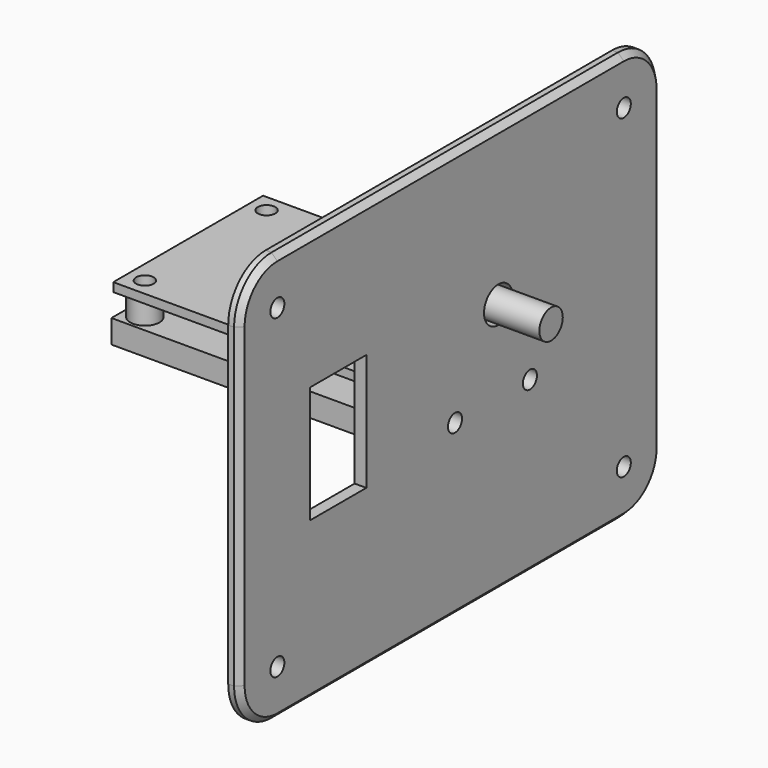
from build123d import *

# Parameters (mm, degrees)
F0_W      = 50
F0_H      = 32
F0_R      = 1.5
F1_DEPTH  = 1.5
F2_W      = 5.773286
F2_H      = 14.389993
F3_DEPTH  = 11
F4_R      = 2.5
F5_DEPTH  = 11
F6_R      = 2.5
F6_R_2    = 1.5
F7_DEPTH  = 4
F8_W      = 50.313371
F8_H      = 32
F9_DEPTH  = 4
F10_R     = 1.5
F10_W     = 12
F10_H     = 20
F10_R_2   = 3.069476
F11_DEPTH = 2
F12_SIZE  = 1


with BuildPart() as f1:
    # F0 (on Top) → F1 (new body)
    with BuildSketch(Plane.XY):
        with Locations((11.350212, -1.27)):
            Rectangle(F0_W, F0_H)
        with Locations((-10.649788, -14.27)):
            Circle(F0_R, mode=Mode.SUBTRACT)
        with Locations((33.350212, -14.27)):
            Circle(F0_R, mode=Mode.SUBTRACT)
        with Locations((-10.649788, 11.73)):
            Circle(F0_R, mode=Mode.SUBTRACT)
        with Locations((33.350212, 11.73)):
            Circle(F0_R, mode=Mode.SUBTRACT)
    extrude(amount=F1_DEPTH)

    # F2 (on face) → F3 (join)
    with BuildSketch(Plane.XY.offset(1.5)):
        with Locations((33.463569, -0.881928)):
            Rectangle(F2_W, F2_H)
    extrude(amount=F3_DEPTH)

    # F4 (on face) → F5 (join)
    with BuildSketch(Plane.YZ.offset(36.350212)):
        with Locations((0, 8)):
            Circle(F4_R)
    extrude(amount=F5_DEPTH)

    # F6 (on face) → F7 (join)
    with BuildSketch(Plane(origin=(0, 0, 0), x_dir=(1, 0, 0), z_dir=(0, 0, -1))):
        with Locations((-10.649788, 14.27)):
            Circle(F6_R)
        with Locations((-10.649788, 14.27)):
            Circle(F6_R_2, mode=Mode.SUBTRACT)
        with Locations((-10.649788, -11.73)):
            Circle(F6_R)
        with Locations((-10.649788, -11.73)):
            Circle(F6_R_2, mode=Mode.SUBTRACT)
        with Locations((33.350212, -11.73)):
            Circle(F6_R)
        with Locations((33.350212, -11.73)):
            Circle(F6_R_2, mode=Mode.SUBTRACT)
        with Locations((33.350212, 14.27)):
            Circle(F6_R)
        with Locations((33.350212, 14.27)):
            Circle(F6_R_2, mode=Mode.SUBTRACT)
    extrude(amount=F7_DEPTH)


with BuildPart() as f9:
    # F8 (on face) → F9 (new body)
    with BuildSketch(Plane(origin=(0, 0, -4), x_dir=(1, 0, 0), z_dir=(0, 0, -1))):
        with Locations((11.193527, 1.27)):
            Rectangle(F8_W, F8_H)
    extrude(amount=F9_DEPTH)


with BuildPart() as f11:
    # F10 (on face) → F11 (new body)
    with BuildSketch(Plane.YZ.offset(36.350212)):
        with BuildLine():
            Line((26.786909, 34.72837), (-47.213091, 34.72837))
            ThreePointArc((-47.213091, 34.72837), (-52.869946, 32.385225), (-55.213091, 26.72837))
            Line((-55.213091, 26.72837), (-55.213091, -27.27163))
            ThreePointArc((-55.213091, -27.27163), (-52.869946, -32.928484), (-47.213091, -35.27163))
            Line((-47.213091, -35.27163), (26.786909, -35.27163))
            ThreePointArc((26.786909, -35.27163), (32.443763, -32.928484), (34.786909, -27.27163))
            Line((34.786909, -27.27163), (34.786909, 26.72837))
            ThreePointArc((34.786909, 26.72837), (32.443763, 32.385225), (26.786909, 34.72837))
        make_face()
        with Locations((-47.213091, -27.27163)):
            Circle(F10_R, mode=Mode.SUBTRACT)
        with Locations((26.786909, -27.27163)):
            Circle(F10_R, mode=Mode.SUBTRACT)
        with Locations((-9.27, -6)):
            Circle(F10_R, mode=Mode.SUBTRACT)
        with Locations((6.73, -6)):
            Circle(F10_R, mode=Mode.SUBTRACT)
        with Locations((-34.213091, 1.907497)):
            Rectangle(F10_W, F10_H, mode=Mode.SUBTRACT)
        with Locations((-47.213091, 26.72837)):
            Circle(F10_R, mode=Mode.SUBTRACT)
        with Locations((0, 8)):
            Circle(F10_R_2, mode=Mode.SUBTRACT)
        with Locations((26.786909, 26.72837)):
            Circle(F10_R, mode=Mode.SUBTRACT)
    extrude(amount=F11_DEPTH)

    # F12
    f12_edges = [f11.edges().sort_by_distance(p)[0] for p in [
        (38.350212, -55.213091, -0.27163),
    ]]
    chamfer(f12_edges, length=F12_SIZE)


solid = Compound([f1.part, f9.part, f11.part])
